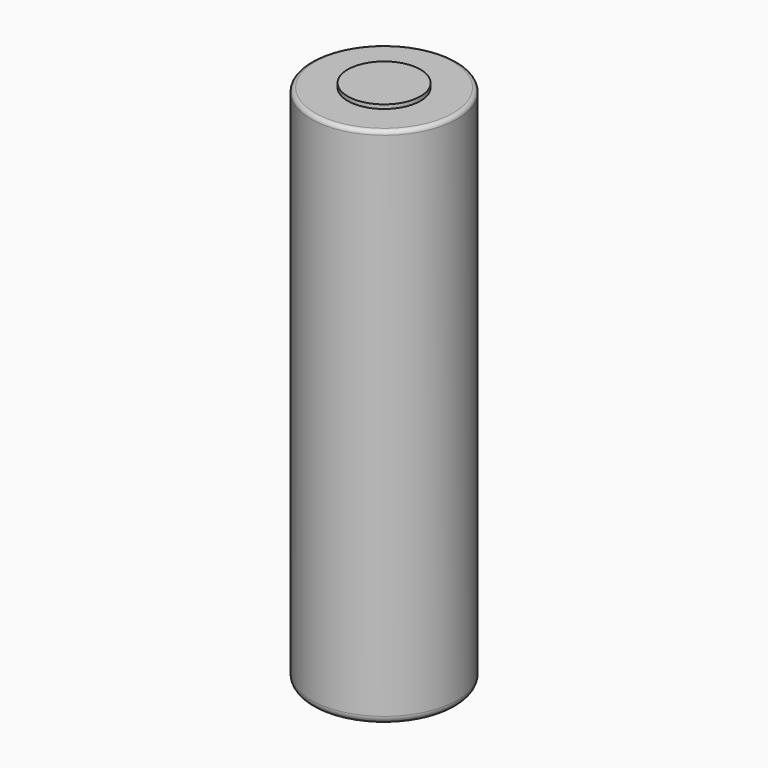
from build123d import *

# Parameters (mm, degrees)
F0_R     = 9.05
F1_DEPTH = 64.8
F2_R     = 1
F3_R     = 4.5
F4_DEPTH = 0.5
F5_R     = 0.5


with BuildPart() as f1:
    # F0 (on Top) → F1 (new body)
    with BuildSketch(Plane.XY):
        Circle(F0_R)
    extrude(amount=F1_DEPTH)

    # F2
    f2_edges = [f1.edges().sort_by_distance(p)[0] for p in [
        (-9.05, 0, 0),
    ]]
    fillet(f2_edges, radius=F2_R)

    # F3 (on face) → F4 (join)
    with BuildSketch(Plane.XY.offset(64.8)):
        Circle(F3_R)
    extrude(amount=F4_DEPTH)

    # F5
    f5_edges = [f1.edges().sort_by_distance(p)[0] for p in [
        (-9.05, 0, 64.8),
    ]]
    fillet(f5_edges, radius=F5_R)


solid = f1.part
